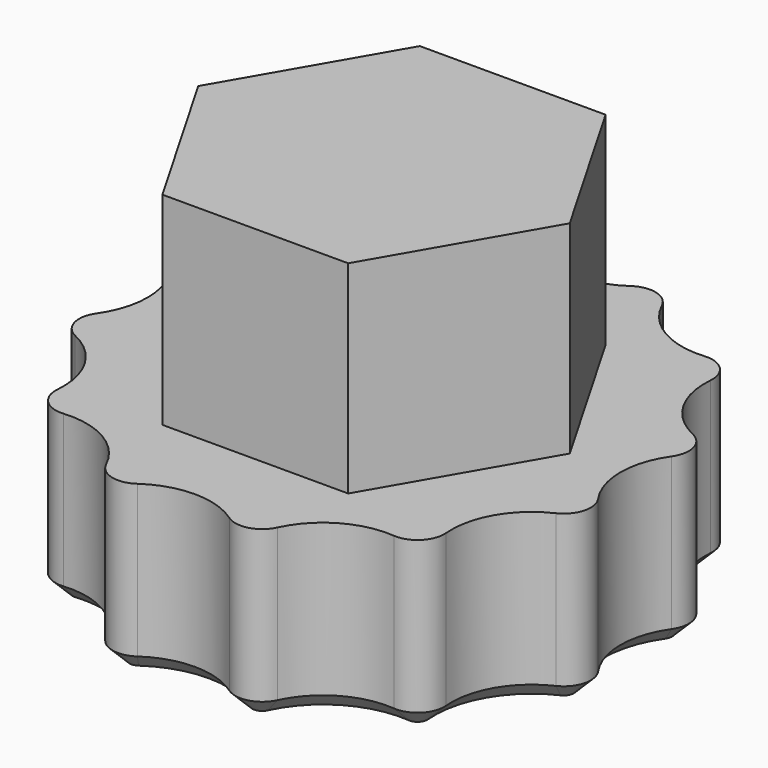
from build123d import *

# Parameters (mm, degrees)
F1_DEPTH = 5
F3_DEPTH = 6
F4_SIZE  = 0.5


with BuildPart() as f1:
    # F0 (on Top) → F1 (new body)
    with BuildSketch(Plane.XY):
        with BuildLine():
            ThreePointArc((1.361869, 7.427878), (0, 7), (-1.361869, 7.427878))
            ThreePointArc((-1.361869, 7.427878), (-2.021263, 7.543457), (-2.534525, 7.113665))
            ThreePointArc((-2.534525, 7.113665), (-3.5, 6.062178), (-4.893352, 5.751796))
            ThreePointArc((-4.893352, 5.751796), (-5.522194, 5.522194), (-5.751796, 4.893352))
            ThreePointArc((-5.751796, 4.893352), (-6.062178, 3.5), (-7.113665, 2.534525))
            ThreePointArc((-7.113665, 2.534525), (-7.543457, 2.021263), (-7.427878, 1.361869))
            ThreePointArc((-7.427878, 1.361869), (-7, 0), (-7.427878, -1.361869))
            ThreePointArc((-7.427878, -1.361869), (-7.543457, -2.021263), (-7.113665, -2.534525))
            ThreePointArc((-7.113665, -2.534525), (-6.062178, -3.5), (-5.751796, -4.893352))
            ThreePointArc((-5.751796, -4.893352), (-5.522194, -5.522194), (-4.893352, -5.751796))
            ThreePointArc((-4.893352, -5.751796), (-3.5, -6.062178), (-2.534525, -7.113665))
            ThreePointArc((-2.534525, -7.113665), (-2.021263, -7.543457), (-1.361869, -7.427878))
            ThreePointArc((-1.361869, -7.427878), (0, -7), (1.361869, -7.427878))
            ThreePointArc((1.361869, -7.427878), (2.021263, -7.543457), (2.534525, -7.113665))
            ThreePointArc((2.534525, -7.113665), (3.5, -6.062178), (4.893352, -5.751796))
            ThreePointArc((4.893352, -5.751796), (5.522194, -5.522194), (5.751796, -4.893352))
            ThreePointArc((5.751796, -4.893352), (6.062178, -3.5), (7.113665, -2.534525))
            ThreePointArc((7.113665, -2.534525), (7.543457, -2.021263), (7.427878, -1.361869))
            ThreePointArc((7.427878, -1.361869), (7, 0), (7.427878, 1.361869))
            ThreePointArc((7.427878, 1.361869), (7.543457, 2.021263), (7.113665, 2.534525))
            ThreePointArc((7.113665, 2.534525), (6.062178, 3.5), (5.751796, 4.893352))
            ThreePointArc((5.751796, 4.893352), (5.522194, 5.522194), (4.893352, 5.751796))
            ThreePointArc((4.893352, 5.751796), (3.5, 6.062178), (2.534525, 7.113665))
            ThreePointArc((2.534525, 7.113665), (2.021263, 7.543457), (1.361869, 7.427878))
        make_face()
    extrude(amount=F1_DEPTH)

    # F2 (on face) → F3 (join)
    with BuildSketch(Plane.XY.offset(5)):
        Polygon((-2.749631, -4.7625), (2.749631, -4.7625), (5.499261, 0), (2.749631, 4.7625), (-2.749631, 4.7625), (-5.499261, 0), align=None)
    extrude(amount=F3_DEPTH)

    # F4
    f4_edges = [f1.edges().sort_by_distance(p)[0] for p in [
        (2.021263, 7.543457, 0),
        (0, 7, 0),
        (-2.021263, 7.543457, 0),
        (-3.5, 6.062178, 0),
        (-5.522194, 5.522194, 0),
        (-6.062178, 3.5, 0),
        (-7.543457, 2.021263, 0),
        (-7, 0, 0),
        (-7.543457, -2.021263, 0),
        (-6.062178, -3.5, 0),
        (-5.522194, -5.522194, 0),
        (-3.5, -6.062178, 0),
        (-2.021263, -7.543457, 0),
        (0, -7, 0),
        (2.021263, -7.543457, 0),
        (3.5, -6.062178, 0),
        (5.522194, -5.522194, 0),
        (6.062178, -3.5, 0),
        (7.543457, -2.021263, 0),
        (7, 0, 0),
        (7.543457, 2.021263, 0),
        (6.062178, 3.5, 0),
        (5.522194, 5.522194, 0),
        (3.5, 6.062178, 0),
    ]]
    chamfer(f4_edges, length=F4_SIZE)


solid = f1.part
